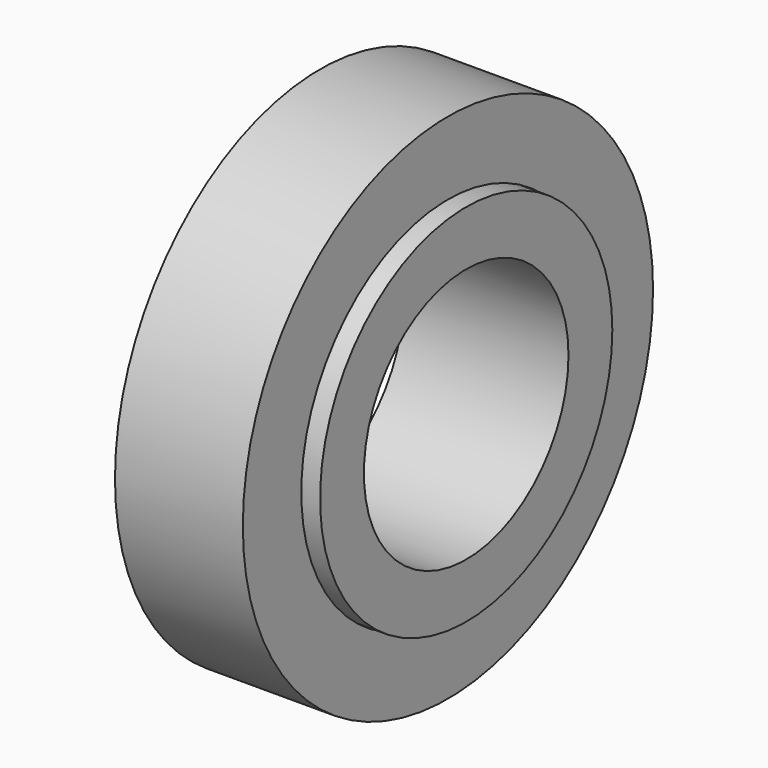
from build123d import *

# Parameters (mm, degrees)
F0_W = 4.5
F0_H = 1.5
F1_W = 3.5
F1_H = 2


with BuildPart() as f2:
    # F0 (on Top) → F2 (revolve)
    with BuildSketch(Plane.XY):
        with Locations((2.25, 4.25)):
            Rectangle(F0_W, F0_H)
    revolve(axis=Axis((2.25, 0, 0), (1, 0, 0)))


with BuildPart() as f3:
    # F1 (on Top) → F3 (revolve)
    with BuildSketch(Plane.XY):
        with Locations((2.25, 6.017642)):
            Rectangle(F1_W, F1_H)
    revolve(axis=Axis((2.25, 0, 0), (1, 0, 0)))


solid = Compound([f2.part, f3.part])
